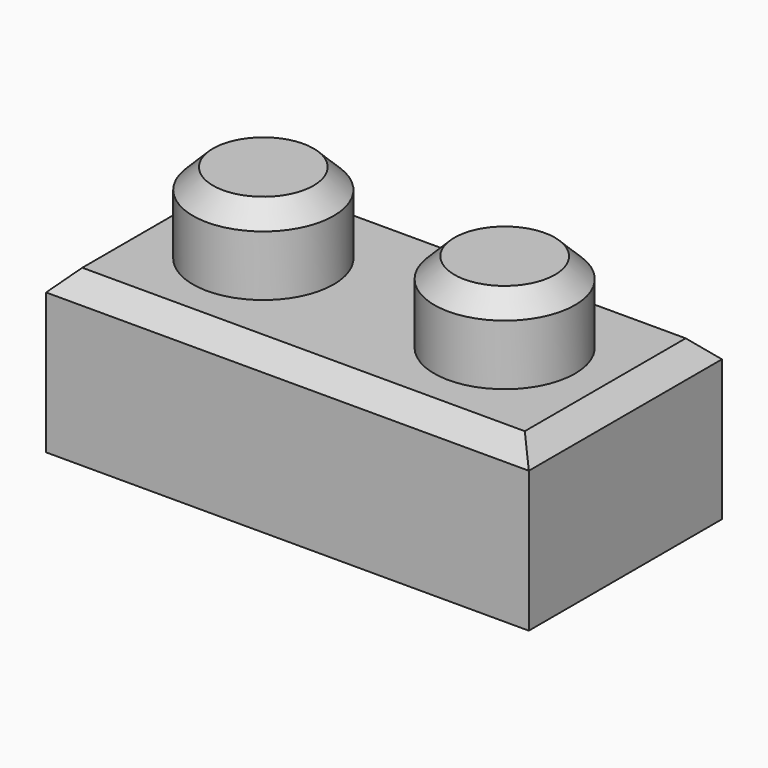
from build123d import *

# Parameters (mm, degrees)
F0_W     = 76.2
F0_H     = 38.1
F1_DEPTH = 25.4
F2_R     = 11.1125
F3_DEPTH = 12.7
F4_T     = -7.9375
F5_SIZE2 = 3.175
F5_SIZE  = 3.175


with BuildPart() as f1:
    # F0 (on Top) → F1 (new body)
    with BuildSketch(Plane.XY):
        with Locations((38.1, 19.05)):
            Rectangle(F0_W, F0_H)
    extrude(amount=F1_DEPTH)

    # F2 (on face) → F3 (join)
    with BuildSketch(Plane.XY.offset(25.4)):
        with Locations((19.05, 19.05)):
            Circle(F2_R)
        with Locations((57.15, 19.05)):
            Circle(F2_R)
    extrude(amount=F3_DEPTH)

    # F4
    f4_openings = [f1.faces().sort_by_distance(p)[0] for p in [
        (38.1, 19.05, 0),
    ]]
    offset(amount=F4_T, openings=f4_openings, kind=Kind.INTERSECTION)

    # F5
    f5_edges = [f1.edges().sort_by_distance(p)[0] for p in [
        (7.9375, 19.05, 38.1),
        (46.0375, 19.05, 38.1),
        (38.1, 0, 25.4),
        (38.1, 38.1, 25.4),
        (0, 19.05, 25.4),
        (76.2, 19.05, 25.4),
    ]]
    chamfer(f5_edges, length=F5_SIZE, length2=F5_SIZE2)


solid = f1.part
